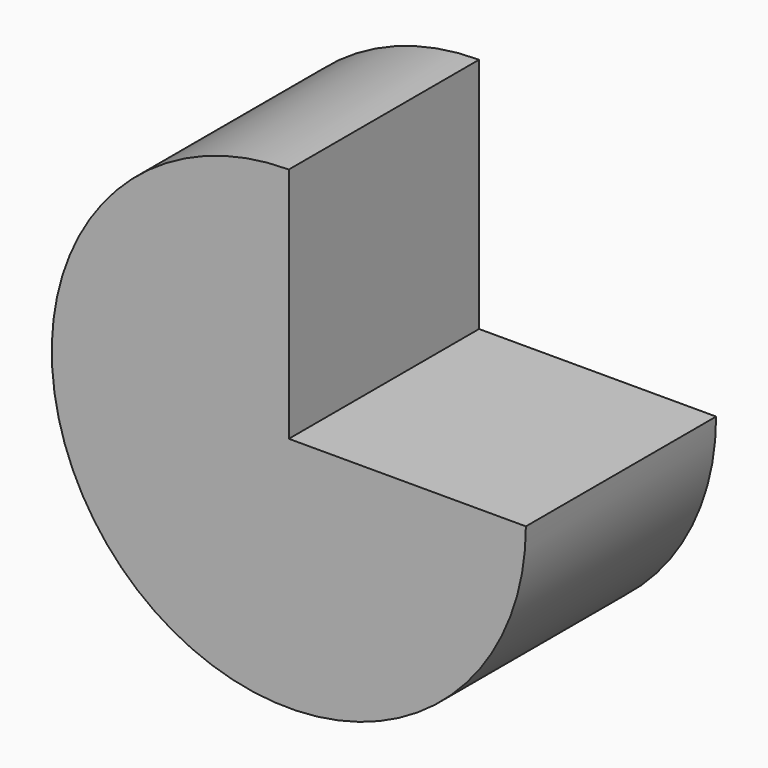
from build123d import *

# Parameters (mm, degrees)
F1_DEPTH = 25.4


with BuildPart() as f1:
    # F0 (on Front) → F1 (new body)
    with BuildSketch(Plane.XZ):
        with BuildLine():
            Line((25.321182, 0), (0, 0))
            Line((0, 0), (0, 25.321182))
            ThreePointArc((0, 25.321182), (-17.904779, -17.904779), (25.321182, 0))
        make_face()
    extrude(amount=F1_DEPTH)


solid = f1.part
